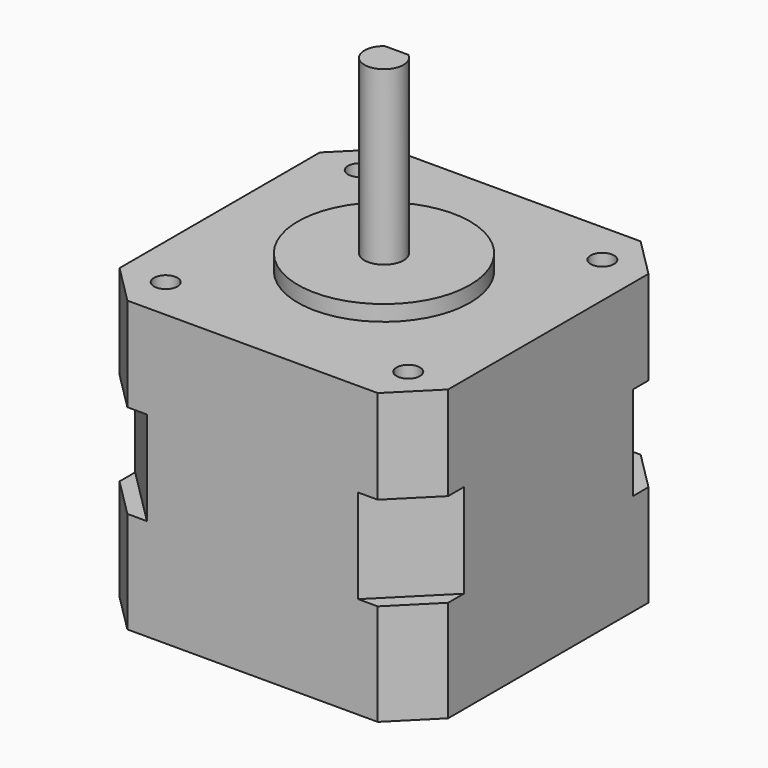
from build123d import *

# Parameters (mm, degrees)
F0_W      = 42
F0_H      = 42
F1_DEPTH  = 6
F2_SIZE   = 7.5
F4_DEPTH  = 12
F5_SIZE   = 5
F7_DEPTH  = 13
F8_R      = 11
F9_DEPTH  = 2
F10_R     = 2.5
F11_DEPTH = 22
F12_W     = 5.2537292178
F12_H     = 0.9334036984
F13_DEPTH = 22
F14_R     = 1.5
F15_DEPTH = 37.001
F16_W     = 16
F16_H     = 11
F17_DEPTH = 6


with BuildPart() as f1:
    # F0 (on Top) → F1 (new body, symmetric)
    with BuildSketch(Plane.XY):
        Rectangle(F0_W, F0_H)
    extrude(amount=F1_DEPTH, both=True)

    # F2
    f2_edges = [f1.edges().sort_by_distance(p)[0] for p in [
        (21, 21, 0),
        (-21, 21, 0),
        (-21, -21, 0),
        (21, -21, 0),
    ]]
    chamfer(f2_edges, length=F2_SIZE)

    # F3 (on face) → F4 (join)
    with BuildSketch(Plane.XY.offset(6)):
        Polygon((13.5, 21), (-13.5, 21), (-21, 13.5), (-21, -13.5), (-13.5, -21), (13.5, -21), (21, -13.5), (21, 13.5), align=None)
        Polygon((21, 21), (13.5, 21), (21, 13.5), align=None)
        Polygon((-13.5, 21), (-21, 21), (-21, 13.5), align=None)
        Polygon((-13.5, -21), (-21, -13.5), (-21, -21), align=None)
        Polygon((21, -21), (21, -13.5), (13.5, -21), align=None)
    extrude(amount=F4_DEPTH)

    # F5
    f5_edges = [f1.edges().sort_by_distance(p)[0] for p in [
        (21, -21, 12),
        (-21, -21, 12),
        (-21, 21, 12),
        (21, 21, 12),
    ]]
    chamfer(f5_edges, length=F5_SIZE)

    # F6 (on face) → F7 (join)
    with BuildSketch(Plane(origin=(0, 0, -6), x_dir=(1, 0, 0), z_dir=(0, 0, -1))):
        Polygon((21, -16), (21, 16), (16, 21), (-16, 21), (-21, 16), (-21, -16), (-16, -21), (16, -21), align=None)
    extrude(amount=F7_DEPTH)

    # F8 (on face) → F9 (join)
    with BuildSketch(Plane.XY.offset(18)):
        Circle(F8_R)
    extrude(amount=F9_DEPTH)

    # F10 (on face) → F11 (join)
    with BuildSketch(Plane.XY.offset(20)):
        Circle(F10_R)
    extrude(amount=F11_DEPTH)

    # F12 (on face) → F13 (cut)
    with BuildSketch(Plane.XY.offset(42)):
        with Locations((-0.0065014465, 2.4667018492)):
            Rectangle(F12_W, F12_H)
    extrude(amount=-F13_DEPTH, mode=Mode.SUBTRACT)

    # F14 (on face) → F15 (cut, through all)
    with BuildSketch(Plane.XY.offset(18)):
        with Locations((-15.5, 15.5)):
            Circle(F14_R)
        with Locations((15.5, 15.5)):
            Circle(F14_R)
        with Locations((-15.5, -15.5)):
            Circle(F14_R)
        with Locations((15.5, -15.5)):
            Circle(F14_R)
    extrude(amount=-F15_DEPTH, mode=Mode.SUBTRACT)

    # F16 (on face) → F17 (join)
    with BuildSketch(Plane(origin=(0, 21, 0), x_dir=(-1, 0, 0), z_dir=(0, 1, 0))):
        with Locations((0, -13.5)):
            Rectangle(F16_W, F16_H)
    extrude(amount=F17_DEPTH)


solid = f1.part
